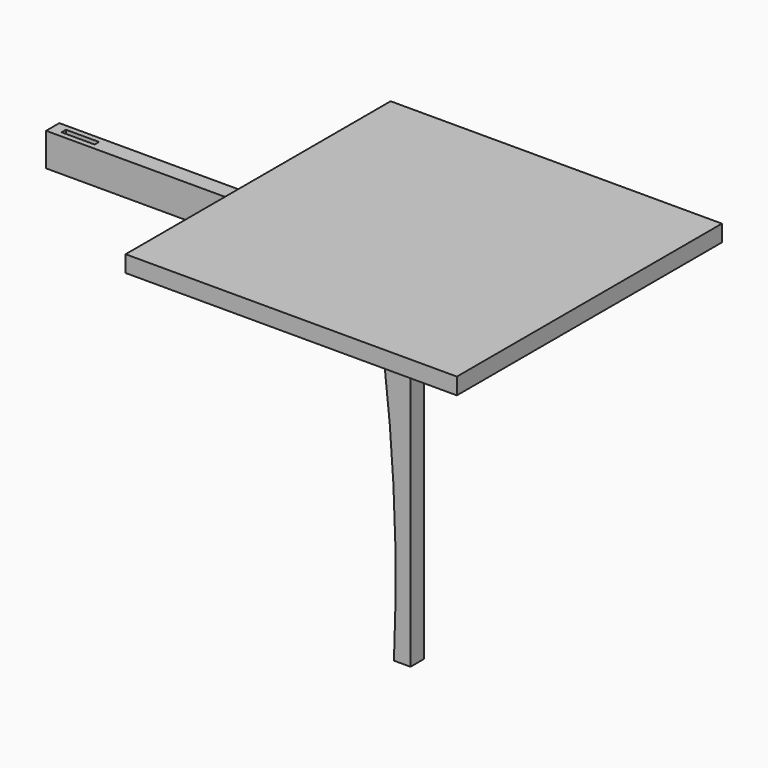
from build123d import *

# Parameters (mm, degrees)
F0_W      = 76.2
F0_H      = 101.6
F1_DEPTH  = 38.1
F2_W      = 76.2
F2_H      = 76.2
F3_DEPTH  = 12.7
F4_W      = 76.2
F4_H      = 76.2
F5_DEPTH  = 12.7
F6_W      = 863.6
F6_H      = 76.2
F7_DEPTH  = 38.1
F8_W      = 76.2
F8_H      = 12.7
F9_DEPTH  = 812.801
F11_DEPTH = 38.1
F12_W     = 762
F12_H     = 762
F13_DEPTH = 38.1


with BuildPart() as f1:
    # F0 (on Front) → F1 (new body)
    with BuildSketch(Plane.XZ):
        with Locations((-38.1, -50.8)):
            Rectangle(F0_W, F0_H)
        with BuildLine():
            Line((0, -101.6), (-76.2, -101.6))
            ThreePointArc((-76.2, -101.6), (-39.2996381375, -456.2437306145), (-38.1, -812.8))
            Line((-38.1, -812.8), (0, -812.8))
            Line((0, -812.8), (0, -101.6))
        make_face()
    extrude(amount=F1_DEPTH)

    # F2 (on face) → F3 (cut)
    with BuildSketch(Plane.XZ.offset(38.1)):
        with Locations((-38.1, -38.1)):
            Rectangle(F2_W, F2_H)
    extrude(amount=-F3_DEPTH, mode=Mode.SUBTRACT)

    # F4 (on face) → F5 (cut)
    with BuildSketch(Plane(origin=(0, 0, 0), x_dir=(-1, 0, 0), z_dir=(0, 1, 0))):
        with Locations((38.1, -38.1)):
            Rectangle(F4_W, F4_H)
    extrude(amount=-F5_DEPTH, mode=Mode.SUBTRACT)


with BuildPart() as f7:
    # F6 (on Front) → F7 (new body)
    with BuildSketch(Plane.XZ):
        with Locations((-406.4, -38.1)):
            Rectangle(F6_W, F6_H)
    extrude(amount=F7_DEPTH)

    # F8 (on face) → F9 (cut, through all)
    with BuildSketch(Plane.XY):
        with Locations((-38.1, -19.05)):
            Rectangle(F8_W, F8_H)
        with Locations((-774.7, -19.05)):
            Rectangle(F8_W, F8_H)
    extrude(amount=-F9_DEPTH, mode=Mode.SUBTRACT)

    # F10 (on face) → F11 (cut)
    with BuildSketch(Plane.XY):
        Polygon((-406.4, 0), (-425.45, 0), (-425.45, -38.1), (-406.4, -38.1), (-387.35, -38.1), (-387.35, 0), align=None)
    extrude(amount=-F11_DEPTH, mode=Mode.SUBTRACT)


with BuildPart() as f13:
    # F12 (on face) → F13 (new body)
    with BuildSketch(Plane.XY):
        Rectangle(F12_W, F12_H)
    extrude(amount=F13_DEPTH)


solid = Compound([f1.part, f7.part, f13.part])
